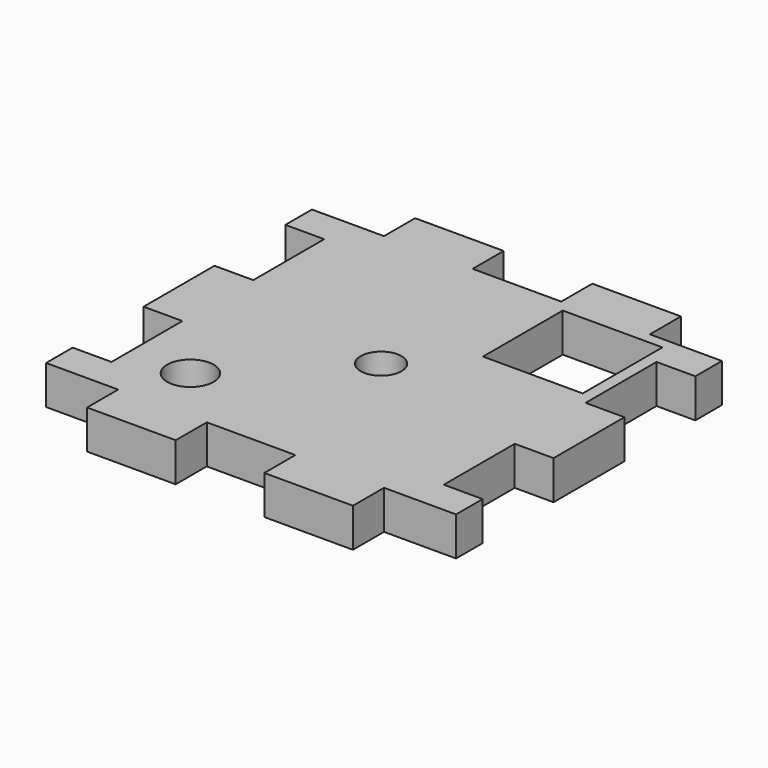
from build123d import *

# Parameters (mm, degrees)
F0_R     = 3.5
F0_R_2   = 3.075
F0_W     = 15
F0_H     = 15
F1_DEPTH = 5.842


with BuildPart() as f1:
    # F0 (on Top) → F1 (new body)
    with BuildSketch(Plane.XY):
        Polygon((-20, 25.508), (-25, 25.508), (-30.842, 25.508), (-30.842, 20.508), (-25, 20.508), (-25, 7.174667), (-30.842, 7.174667), (-30.842, -6.158667), (-25, -6.158667), (-25, -19.492), (-30.842, -19.492), (-30.842, -24.492), (-25, -24.492), (-20, -24.492), (-20, -30.334), (-6.666667, -30.334), (-6.666667, -24.492), (6.666667, -24.492), (6.666667, -30.334), (20, -30.334), (20, -24.492), (25, -24.492), (30.842, -24.492), (30.842, -19.492), (25, -19.492), (25, -6.158667), (30.842, -6.158667), (30.842, 7.174667), (25, 7.174667), (25, 20.508), (30.842, 20.508), (30.842, 25.508), (25, 25.508), (20, 25.508), (20, 31.35), (6.666667, 31.35), (6.666667, 25.508), (-6.666667, 25.508), (-6.666667, 31.35), (-20, 31.35), align=None)
        with Locations((-15.96015, -15.948574)):
            Circle(F0_R, mode=Mode.SUBTRACT)
        with Locations((0.002564, -0.044535)):
            Circle(F0_R_2, mode=Mode.SUBTRACT)
        with Locations((15.726267, 16.338611)):
            Rectangle(F0_W, F0_H, mode=Mode.SUBTRACT)
    extrude(amount=F1_DEPTH)


solid = f1.part
